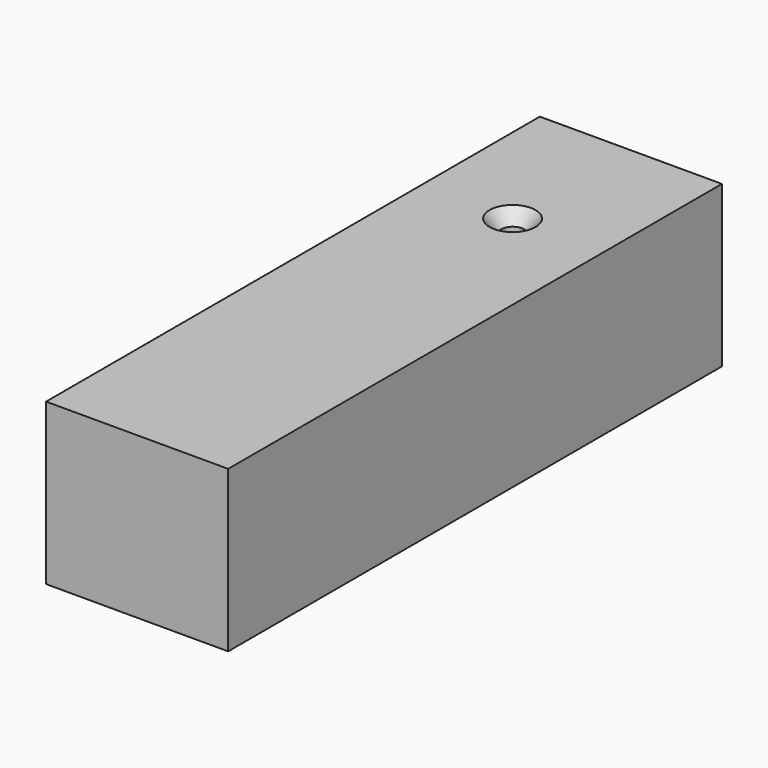
from build123d import *

# Parameters (mm, degrees)
F0_W           = 53.4372702241
F0_H           = 47.1505336463
F1_DEPTH       = 181.102
F3_D           = 6.7564
F3_DEPTH       = 12.7
F3_CSINK_D     = 13.4874
F3_CSINK_ANGLE = 82
F3_TIP         = 2.0298273432


with BuildPart() as f1:
    # F0 (on Front) → F1 (new body)
    with BuildSketch(Plane.XZ):
        with Locations((26.718635112, 23.5752668232)):
            Rectangle(F0_W, F0_H)
    extrude(amount=-F1_DEPTH)

    # F3
    with Locations(Plane.XY.offset(47.1505336463)):
        with Locations((26.718635112, 137.7135068178)):
            CounterSinkHole(F3_D / 2, F3_CSINK_D / 2, depth=F3_DEPTH, counter_sink_angle=F3_CSINK_ANGLE)
            with Locations((0, 0, -(F3_DEPTH + F3_TIP / 2))):  # 118° drill point
                Cone(0, F3_D / 2, F3_TIP, mode=Mode.SUBTRACT)


solid = f1.part
